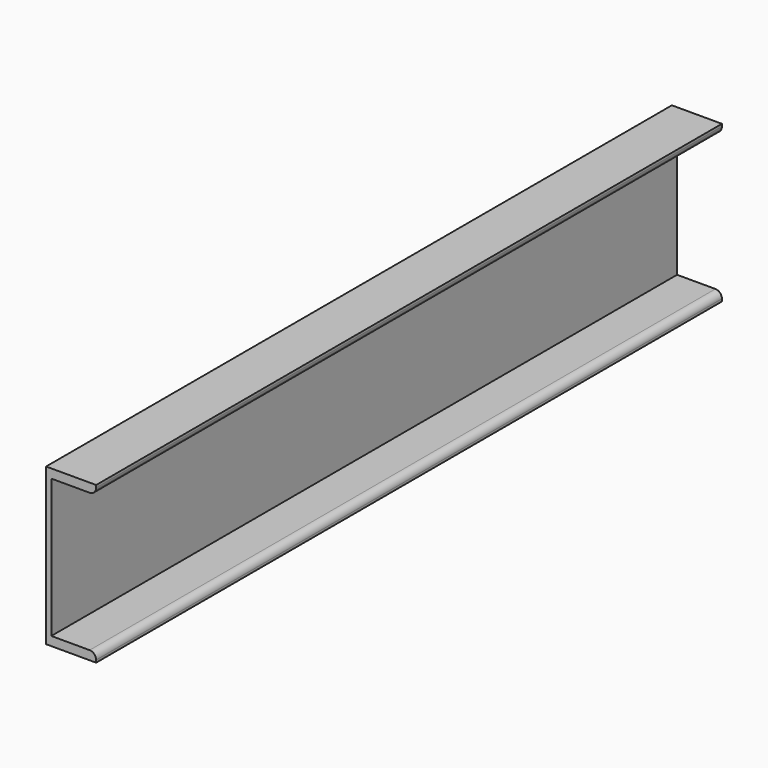
from build123d import *

# Parameters (mm, degrees)
F1_DEPTH = 762


with BuildPart() as f1:
    # F0 (on Front) → F1 (new body)
    with BuildSketch(Plane.XZ):
        with BuildLine():
            Line((-31.499875, 80.088559), (-31.499875, 72.680225))
            Line((-31.499875, 72.680225), (-31.499875, -72.311441))
            Line((-31.499875, -72.311441), (17.268125, -72.311441))
            Line((17.268125, -72.311441), (17.268125, -69.949241))
            ThreePointArc((17.268125, -69.949241), (15.408253, -65.459113), (10.918125, -63.599241))
            Line((10.918125, -63.599241), (-26.419875, -63.599241))
            Line((-26.419875, -63.599241), (-26.419875, 71.376359))
            Line((-26.419875, 71.376359), (10.918125, 71.376359))
            ThreePointArc((10.918125, 71.376359), (15.408253, 73.236231), (17.268125, 77.726359))
            Line((17.268125, 77.726359), (17.268125, 80.088559))
            Line((17.268125, 80.088559), (-31.499875, 80.088559))
        make_face()
    extrude(amount=F1_DEPTH)


solid = f1.part
